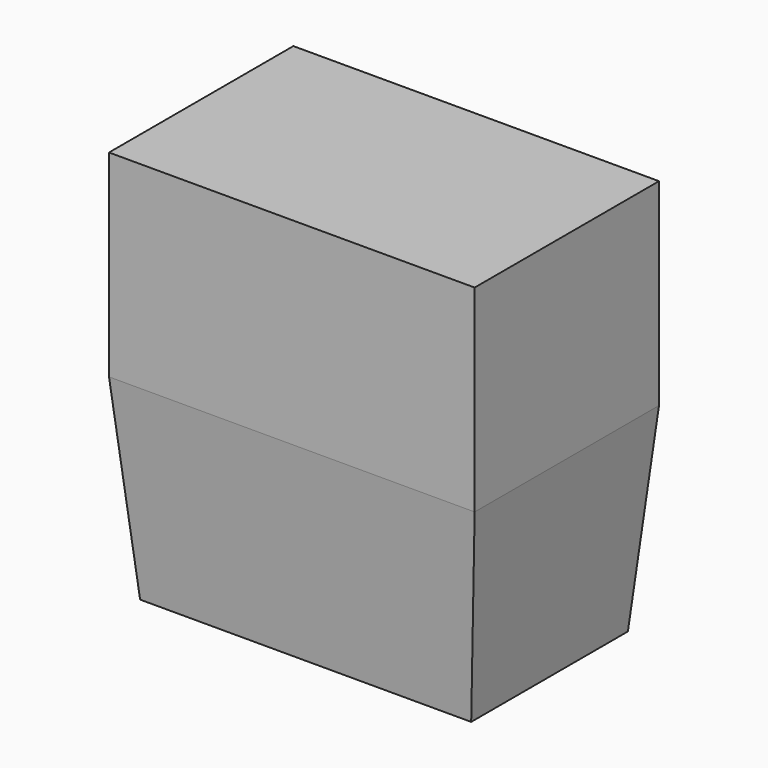
from build123d import *

# Parameters (mm, degrees)
F0_W      = 55.5363558233
F0_H      = 30
F1_DEPTH  = 17.5
F1_FACE_W = 55.5363558233
F1_FACE_H = 35
F2_DEPTH  = 30
F2_TAPER  = 5


with BuildPart() as f1:
    # F0 (on Front) → F1 (new body, symmetric)
    with BuildSketch(Plane.XZ):
        with Locations((27.7681779116, 15)):
            Rectangle(F0_W, F0_H)
    extrude(amount=F1_DEPTH, both=True)

    # F1_face (on face) → F2 (join)
    with BuildSketch(Plane(origin=(27.7681779116, 0, 0), x_dir=(1, 0, 0), z_dir=(0, 0, -1))):
        Rectangle(F1_FACE_W, F1_FACE_H)
    extrude(amount=F2_DEPTH, taper=F2_TAPER)


solid = f1.part
